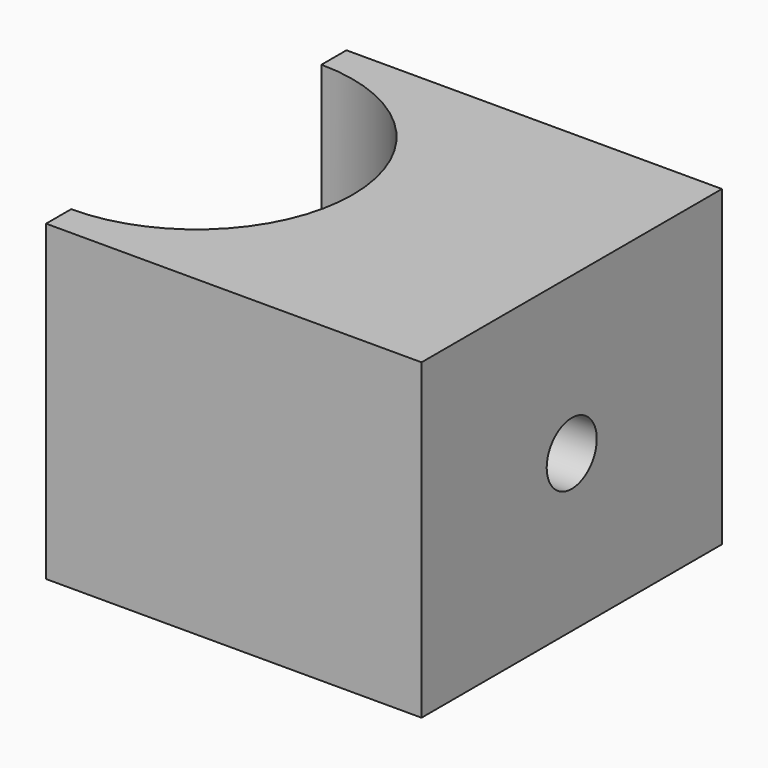
from build123d import *

# Parameters (mm, degrees)
F1_DEPTH = 25
F3_D     = 5


with BuildPart() as f1:
    # F0 (on Top) → F1 (new body)
    with BuildSketch(Plane.XY):
        with BuildLine():
            ThreePointArc((0, 12.5), (12.5, 0), (0, -12.5))
            Line((0, -12.5), (0, -15))
            Line((0, -15), (30, -15))
            Line((30, -15), (30, 15))
            Line((30, 15), (0, 15))
            Line((0, 15), (0, 12.5))
        make_face()
    extrude(amount=F1_DEPTH)

    # F3 (through all)
    with Locations(Plane.YZ.offset(30)):
        with Locations((0, 12.5)):
            Hole(F3_D / 2)


solid = f1.part
